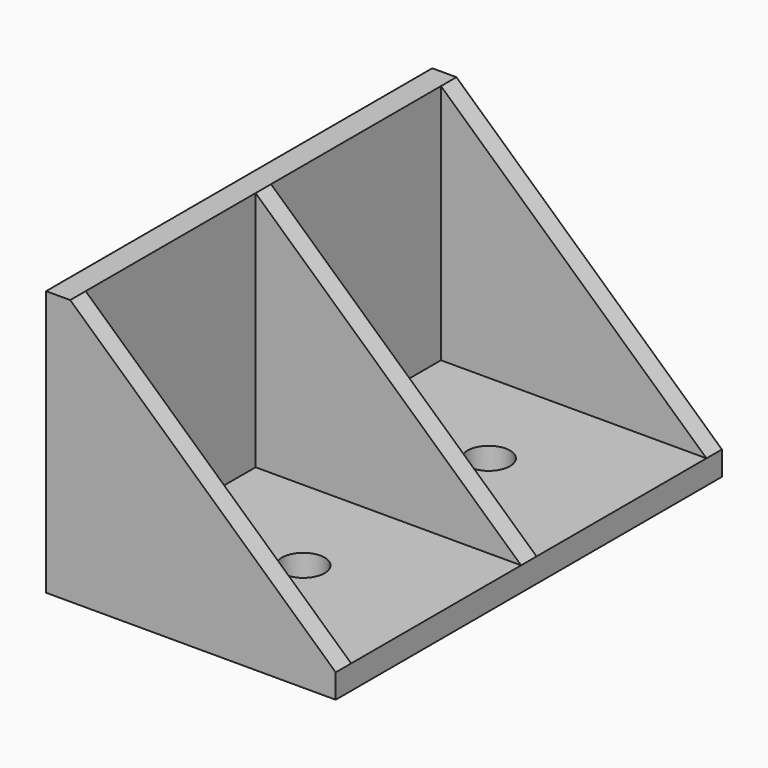
from build123d import *

# Parameters (mm, degrees)
SKETCH_W         = 30
SKETCH_H         = 50
PAD_DEPTH        = 2.5
SKETCH001_W      = 50
SKETCH001_H      = 25
PAD001_DEPTH     = 2.5
PAD002_DEPTH     = 2
PAD003_DEPTH     = 1
PAD004_DEPTH     = 2
HOLE_D           = 4.4
HOLE_DEPTH       = 25
HOLE_CSINK_D     = 8
HOLE_CSINK_ANGLE = 90


with BuildPart() as part:
    # Sketch → Pad (new body)
    with BuildSketch(Plane.XY):
        with Locations((15, 25)):
            Rectangle(SKETCH_W, SKETCH_H)
    extrude(amount=PAD_DEPTH)

    # Sketch001 → Pad001 (join)
    with BuildSketch(Plane(origin=(0, 0, 0), x_dir=(0, -1, 0), z_dir=(-1, 0, 0))):
        with Locations((-25, 15)):
            Rectangle(SKETCH001_W, SKETCH001_H)
    extrude(amount=-PAD001_DEPTH)

    # Sketch002 → Pad002 (join)
    with BuildSketch(Plane.XZ):
        Polygon((2.5, 2.5), (2.5, 27.5), (30, 2.5), align=None)
    extrude(amount=-PAD002_DEPTH)

    # Sketch003 → Pad003 (join, symmetric)
    with BuildSketch(Plane.XZ.offset(-25)):
        Polygon((2.5, 2.5), (2.5, 27.5), (30, 2.5), align=None)
    extrude(amount=PAD003_DEPTH, both=True)

    # Sketch004 → Pad004 (join)
    with BuildSketch(Plane.XZ.offset(-50)):
        Polygon((2.5, 27.5), (2.5, 2.5), (30, 2.5), align=None)
    extrude(amount=PAD004_DEPTH)

    # Hole
    with Locations(Plane.XY.offset(5)):
        with Locations((16.25, 37), (16.25, 13)):
            CounterSinkHole(HOLE_D / 2, HOLE_CSINK_D / 2, depth=HOLE_DEPTH, counter_sink_angle=HOLE_CSINK_ANGLE)


solid = part.part
